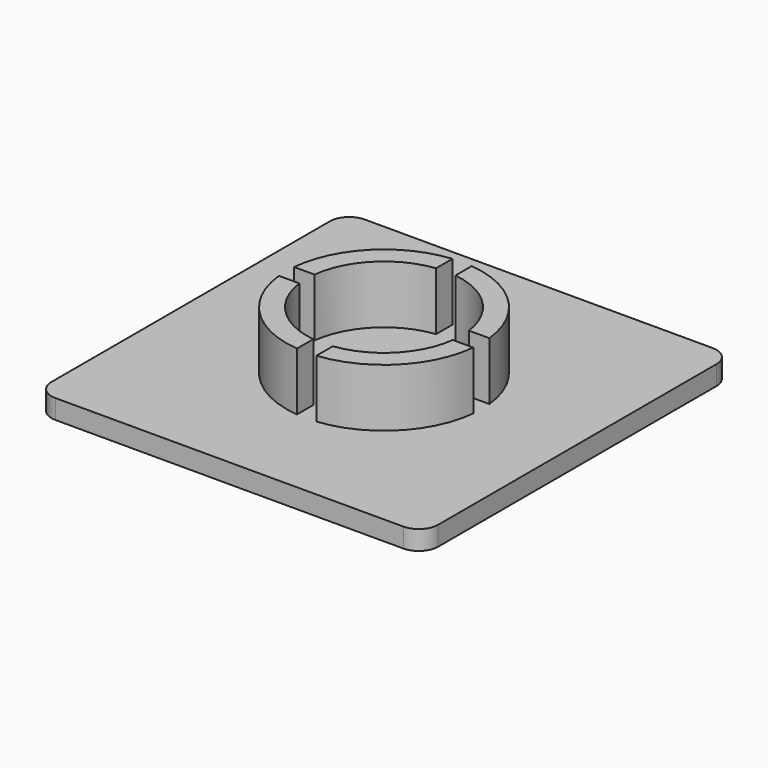
from build123d import *

# Parameters (mm, degrees)
SKETCH_W        = 40
SKETCH_H        = 40
PAD_DEPTH       = 2
SKETCH001_R     = 10.1
PAD001_DEPTH    = 6
SKETCH002_R     = 8
POCKET_DEPTH    = 6
SKETCH003_W     = 2.007961
SKETCH003_H     = 21.864484
SKETCH003_W_2   = 7.094803
SKETCH003_H_2   = 2.097204
SKETCH003_W_3   = 6.916317
SKETCH003_H_3   = 1.96334
POCKET001_DEPTH = 6
FILLET_R        = 2


with BuildPart() as part:
    # Sketch → Pad (new body)
    with BuildSketch(Plane.XY):
        with Locations((20, -20)):
            Rectangle(SKETCH_W, SKETCH_H)
    extrude(amount=PAD_DEPTH)

    # Sketch001 (on Face6 of Pad) → Pad001 (join)
    with BuildSketch(Plane.XY.offset(2)):
        with Locations((20, -20)):
            Circle(SKETCH001_R)
    extrude(amount=PAD001_DEPTH)

    # Sketch002 (on Face8 of Pad001) → Pocket (cut)
    with BuildSketch(Plane.XY.offset(8)):
        with Locations((20, -20)):
            Circle(SKETCH002_R)
    extrude(amount=-POCKET_DEPTH, mode=Mode.SUBTRACT)

    # Sketch003 (on Face8 of Pocket) → Pocket001 (cut)
    with BuildSketch(Plane.XY.offset(8)):
        with Locations((20.041939, -19.903789)):
            Rectangle(SKETCH003_W, SKETCH003_H)
        with Locations((28.520004, -19.970721)):
            Rectangle(SKETCH003_W_2, SKETCH003_H_2)
        with Locations((12.456301, -20.037653)):
            Rectangle(SKETCH003_W_3, SKETCH003_H_3)
    extrude(amount=-POCKET001_DEPTH, mode=Mode.SUBTRACT)

    # Fillet
    fillet_edges = [part.edges().sort_by_distance(p)[0] for p in [
        (40, -40, 1),
        (40, 0, 1),
        (0, -40, 1),
        (0, 0, 1),
    ]]
    fillet(fillet_edges, radius=FILLET_R)


solid = part.part
